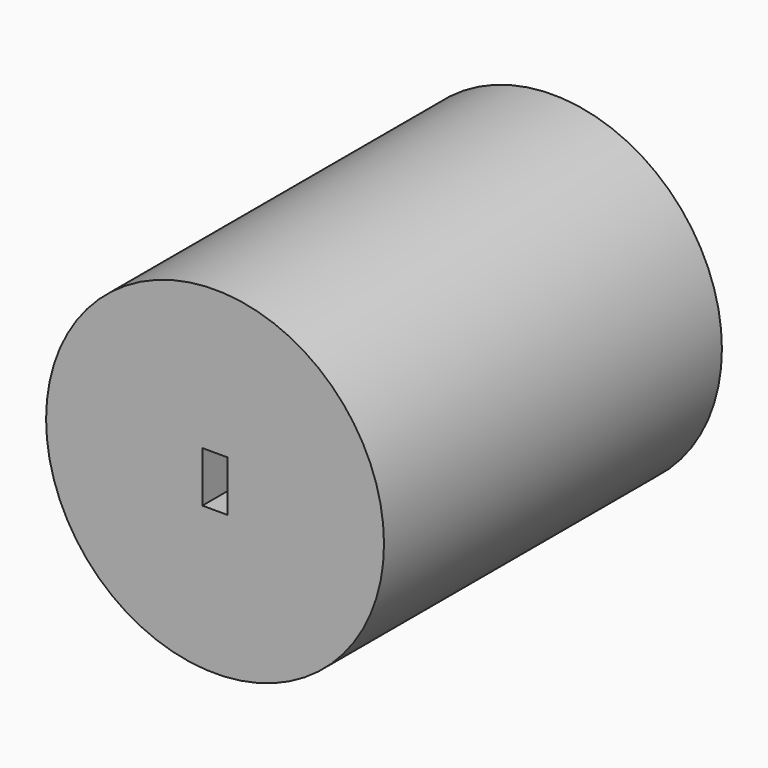
from build123d import *

# Parameters (mm, degrees)
F0_R      = 20
F0_R_2    = 12
F1_DEPTH  = 50
F3_R      = 12
F3_R_2    = 7.5
F4_DEPTH  = 37
F6_DEPTH  = 10
F7_DEPTH  = 15
F9_R      = 7.5
F10_DEPTH = 10
F11_W     = 3
F11_H     = 6
F12_DEPTH = 7


with BuildPart() as f1:
    # F0 (on Front) → F1 (new body)
    with BuildSketch(Plane.XZ):
        Circle(F0_R)
        Circle(F0_R_2, mode=Mode.SUBTRACT)
    extrude(amount=F1_DEPTH)

    # F3 (on offset) → F4 (join)
    with BuildSketch(Plane.XZ.offset(13)):
        Circle(F3_R)
        Circle(F3_R_2, mode=Mode.SUBTRACT)
    extrude(amount=F4_DEPTH)

    # F5 (on offset) → F6 (cut)
    with BuildSketch(Plane.XZ.offset(13)):
        with BuildLine():
            ThreePointArc((0.5, 11.9895788083), (0, 12), (-0.5, 11.9895788083))
            Line((-0.5, 11.9895788083), (-0.5, 7.4833147735))
            ThreePointArc((-0.5, 7.4833147735), (0, 7.5), (0.5, 7.4833147735))
            Line((0.5, 7.4833147735), (0.5, 11.9895788083))
        make_face()
    extrude(amount=F6_DEPTH, mode=Mode.SUBTRACT)

    # F5 (on offset) → F7 (cut)
    with BuildSketch(Plane.XZ.offset(13)):
        with BuildLine():
            ThreePointArc((0.5, 11.9895788083), (0, 12), (-0.5, 11.9895788083))
            Line((-0.5, 11.9895788083), (-0.5, 7.4833147735))
            ThreePointArc((-0.5, 7.4833147735), (0, 7.5), (0.5, 7.4833147735))
            Line((0.5, 7.4833147735), (0.5, 11.9895788083))
        make_face()
        with BuildLine():
            ThreePointArc((-6.7307406984, 3.3086446849), (-6.4951905284, 3.75), (-6.2307406984, 4.1746700887))
            Line((-6.2307406984, 4.1746700887), (-10.1332798286, 6.427802106))
            ThreePointArc((-10.1332798286, 6.427802106), (-10.3923048454, 6), (-10.6332798286, 5.5617767022))
            Line((-10.6332798286, 5.5617767022), (-6.7307406984, 3.3086446849))
        make_face()
        with BuildLine():
            ThreePointArc((-6.2307406984, -4.1746700887), (-6.4951905284, -3.75), (-6.7307406984, -3.3086446849))
            Line((-6.7307406984, -3.3086446849), (-10.6332798286, -5.5617767022))
            ThreePointArc((-10.6332798286, -5.5617767022), (-10.3923048454, -6), (-10.1332798286, -6.427802106))
            Line((-10.1332798286, -6.427802106), (-6.2307406984, -4.1746700887))
        make_face()
        with BuildLine():
            ThreePointArc((0.5, -7.4833147735), (0, -7.5), (-0.5, -7.4833147735))
            Line((-0.5, -7.4833147735), (-0.5, -11.9895788083))
            ThreePointArc((-0.5, -11.9895788083), (0, -12), (0.5, -11.9895788083))
            Line((0.5, -11.9895788083), (0.5, -7.4833147735))
        make_face()
        with BuildLine():
            ThreePointArc((6.7307406984, -3.3086446849), (6.4951905284, -3.75), (6.2307406984, -4.1746700887))
            Line((6.2307406984, -4.1746700887), (10.1332798286, -6.427802106))
            ThreePointArc((10.1332798286, -6.427802106), (10.3923048454, -6), (10.6332798286, -5.5617767022))
            Line((10.6332798286, -5.5617767022), (6.7307406984, -3.3086446849))
        make_face()
        with BuildLine():
            ThreePointArc((6.2307406984, 4.1746700887), (6.4951905284, 3.75), (6.7307406984, 3.3086446849))
            Line((6.7307406984, 3.3086446849), (10.6332798286, 5.5617767022))
            ThreePointArc((10.6332798286, 5.5617767022), (10.3923048454, 6), (10.1332798286, 6.427802106))
            Line((10.1332798286, 6.427802106), (6.2307406984, 4.1746700887))
        make_face()
    extrude(amount=F7_DEPTH, mode=Mode.SUBTRACT)

    # F9 (on offset) → F10 (join)
    with BuildSketch(Plane.XZ.offset(50)):
        Circle(F9_R)
    extrude(amount=-F10_DEPTH)

    # F11 (on offset) → F12 (cut)
    with BuildSketch(Plane.XZ.offset(50)):
        Rectangle(F11_W, F11_H)
    extrude(amount=-F12_DEPTH, mode=Mode.SUBTRACT)


solid = f1.part
